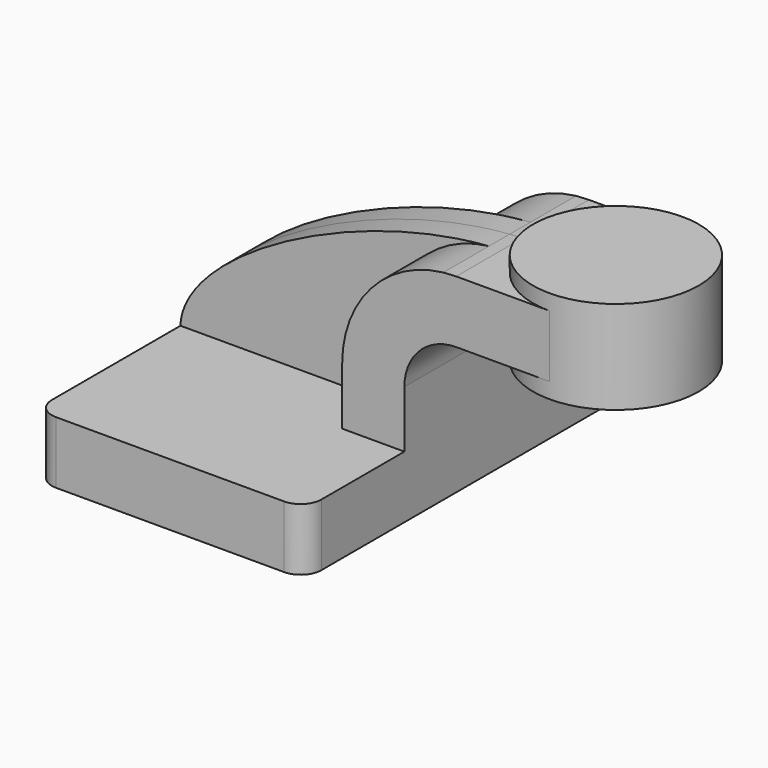
from build123d import *

# Parameters (mm, degrees)
F1_DEPTH = 63.5
F2_DEPTH = 7.9375
F0_W     = 25.4
F0_H     = 19.05
F3_DEPTH = 25.4
F5_R     = 6.35


with BuildPart() as f1:
    # F0 (on Front) → F1 (new body, symmetric)
    with BuildSketch(Plane.XZ):
        Polygon((-41.275, 9.525), (-41.275, -9.525), (41.275, -9.525), (41.275, 9.525), (22.225, 9.525), align=None)
    extrude(amount=F1_DEPTH, both=True)

    # F0 (on Front) → F2 (join, symmetric)
    with BuildSketch(Plane.XZ):
        with BuildLine():
            add(Edge.make_bspline(
                [(-41.275, 9.525), (-40.5524685808, 30.7933831183), (10.8961521527, 58.542204844), (53.2054273143, 61.7017269308)],
                knots=[0, 0, 0, 0, 108.12000921, 108.12000921, 108.12000921, 108.12000921], degree=3))
            Line((-41.275, 9.525), (22.225, 9.525))
            Line((22.225, 9.525), (22.225, 27.0002))
            ThreePointArc((22.225, 27.0002), (31.096978812, 50.2595145208), (53.2054273143, 61.7017269308))
        make_face()
    extrude(amount=F2_DEPTH, both=True)

    # F0 (on Front) → F3 (join, symmetric)
    with BuildSketch(Plane.XZ):
        with Locations((73.025, 52.4002)):
            Rectangle(F0_W, F0_H)
        with BuildLine():
            Line((22.225, 9.525), (41.275, 9.525))
            Line((41.275, 9.525), (41.275, 27.0002))
            ThreePointArc((41.275, 27.0002), (45.9246798487, 38.2255201513), (57.15, 42.8752))
            Line((57.15, 42.8752), (60.325, 42.8752))
            Line((60.325, 42.8752), (60.325, 61.9252))
            Line((60.325, 61.9252), (57.15, 61.9252))
            add(Edge.make_bspline(
                [(53.2054273143, 61.7017269308), (54.5298526747, 61.8006308038), (55.8453223482, 61.8754395085), (57.15, 61.9252)],
                knots=[108.12000921, 108.12000921, 108.12000921, 108.12000921, 111.5045361635, 111.5045361635, 111.5045361635, 111.5045361635], degree=3))
            ThreePointArc((53.2054273143, 61.7017269308), (31.096978812, 50.2595145208), (22.225, 27.0002))
            Line((22.225, 27.0002), (22.225, 9.525))
        make_face()
    extrude(amount=F3_DEPTH, both=True)

    # F0 (on Front) → F4 (revolve)
    with BuildSketch(Plane.XZ):
        Polygon((85.725, 66.675), (85.725, 61.9252), (85.725, 42.8752), (85.725, 38.1), (111.125, 38.1), (111.125, 66.675), align=None)
    revolve(axis=Axis((85.725, 0, 52.3875), (0, 0, 1)))

    # F5
    f5_edges = [f1.edges().sort_by_distance(p)[0] for p in [
        (41.275, -63.5, 0),
        (-41.275, -63.5, 0),
        (41.275, 63.5, 0),
        (-41.275, 63.5, 0),
    ]]
    fillet(f5_edges, radius=F5_R)


solid = f1.part
